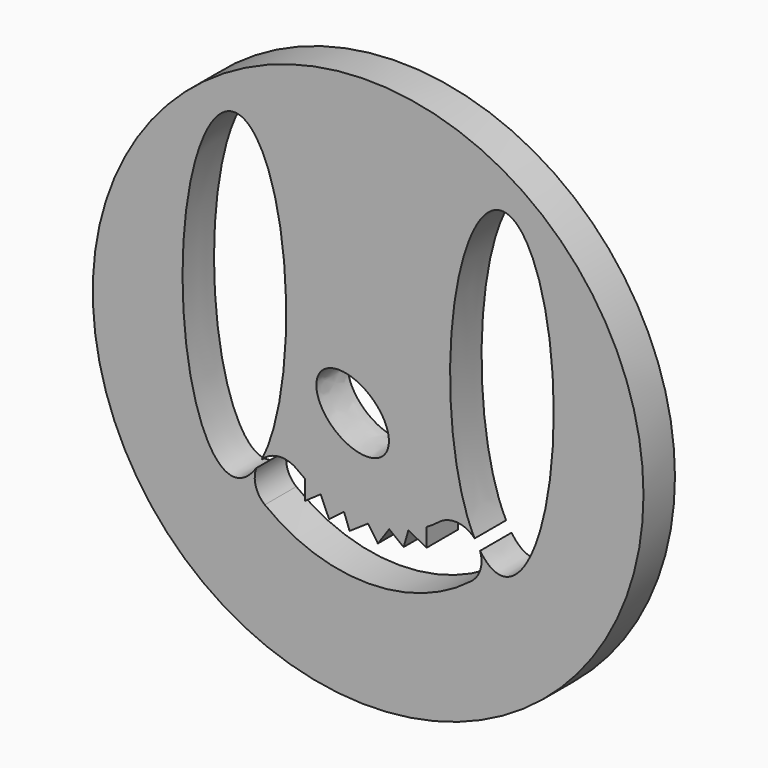
from build123d import *

# Parameters (mm, degrees)
F0_R     = 88.9
F1_DEPTH = 12.7


with BuildPart() as f1:
    # F0 (on Front) → F1 (new body)
    with BuildSketch(Plane.XZ):
        with Locations((0, 120.65)):
            Circle(F0_R)
        with BuildLine():
            add(Edge.make_bspline(
                [(5.270935, 104.856715), (15.008919, 116.666605), (-5.268255, 123.466658), (-25.545429, 130.266711), (-15.006239, 111.656768), (-4.467049, 93.046824), (5.270935, 104.856715)],
                knots=[0, 0, 0, 2.094395, 2.094395, 4.18879, 4.18879, 6.283185, 6.283185, 6.283185], degree=2, weights=[1, 0.5, 1, 0.5, 1, 0.5, 1]))
        make_face(mode=Mode.SUBTRACT)
        with BuildLine():
            add(Edge.make_bspline(
                [(-43.18843, 82.730539), (-39.491221, 82.730539), (-36.138163, 87.557923)],
                knots=[0, 0, 0, 0.434891, 0.434891, 0.434891], degree=2, weights=[1, 0.976452, 1]))
            add(Edge.make_bspline(
                [(-34.378246, 90.499924), (-14.280604, 129.069769), (-32.697923, 174.99585), (-51.115241, 220.921931), (-58.971378, 151.826235), (-66.827515, 82.730539), (-43.18843, 82.730539)],
                knots=[0.554456, 0.554456, 0.554456, 2.464032, 2.464032, 4.373609, 4.373609, 6.283185, 6.283185, 6.283185], degree=2, weights=[1, 0.577782, 1, 0.577782, 1, 0.577782, 1]))
            ThreePointArc((-34.378246, 90.499924), (-28.805386, 93.230461), (-22.860358, 91.450225))
            ThreePointArc((-22.860358, 91.450225), (-21.643955, 90.53751), (-20.391153, 89.675434))
            Line((-20.391153, 89.675434), (-20.391153, 83.360285))
            Line((-20.391153, 83.360285), (-15.346843, 86.890597))
            Line((-15.346843, 86.890597), (-12.592051, 80.687091))
            Line((-12.592051, 80.687091), (-7.790316, 84.393499))
            Line((-7.790316, 84.393499), (-5.992727, 79.515722))
            Line((-5.992727, 79.515722), (0, 83.566003))
            Line((0, 83.566003), (3.145525, 78.911938))
            Line((3.145525, 78.911938), (6.807539, 84.19619))
            Line((6.807539, 84.19619), (11.453082, 80.588236))
            Line((11.453082, 80.588236), (13.007065, 85.921926))
            Line((13.007065, 85.921926), (18.848449, 82.789105))
            Line((18.848449, 82.789105), (18.848449, 88.713206))
            ThreePointArc((18.848449, 88.713206), (20.899258, 90.015968), (22.860358, 91.450225))
            ThreePointArc((22.860358, 91.450225), (28.805386, 93.230461), (34.378246, 90.499924))
            add(Edge.make_bspline(
                [(43.18843, 82.730539), (66.827515, 82.730539), (58.971378, 151.826235), (51.115241, 220.921931), (32.697923, 174.99585), (14.280604, 129.069769), (34.378246, 90.499924)],
                knots=[0, 0, 0, 1.909576, 1.909576, 3.819153, 3.819153, 5.728729, 5.728729, 5.728729], degree=2, weights=[1, 0.577782, 1, 0.577782, 1, 0.577782, 1]))
            add(Edge.make_bspline(
                [(36.138163, 87.557923), (39.491221, 82.730539), (43.18843, 82.730539)],
                knots=[5.848294, 5.848294, 5.848294, 6.283185, 6.283185, 6.283185], degree=2, weights=[1, 0.976452, 1]))
            ThreePointArc((36.138163, 87.557923), (36.271108, 82.356644), (33.351073, 78.050325))
            ThreePointArc((33.351073, 78.050325), (0, 66.548001), (-33.351073, 78.050325))
            ThreePointArc((-33.351073, 78.050325), (-36.271108, 82.356644), (-36.138163, 87.557923))
        make_face(mode=Mode.SUBTRACT)
    extrude(amount=F1_DEPTH)


solid = f1.part
